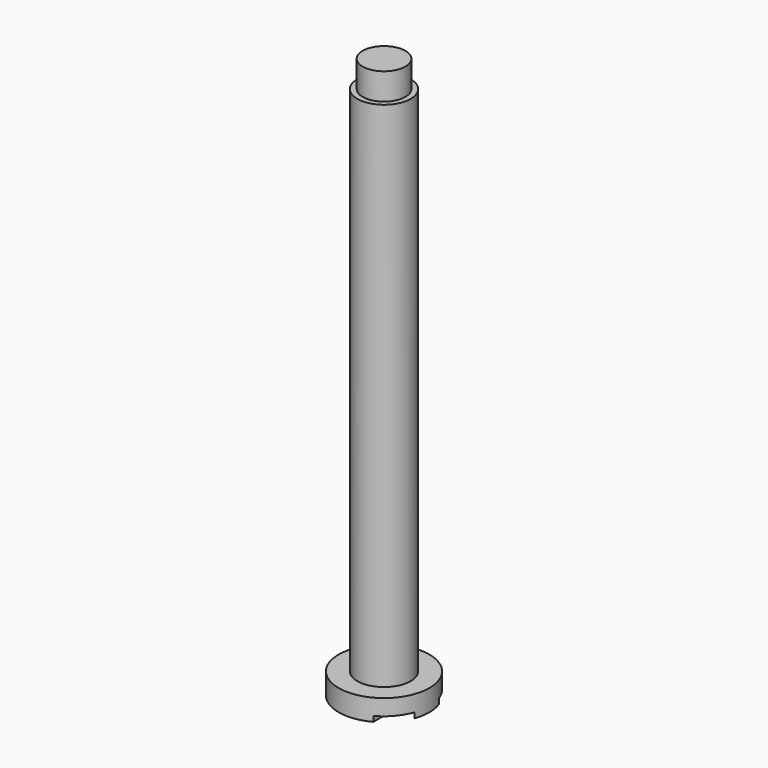
from build123d import *

# Parameters (mm, degrees)
F0_R     = 8.5
F1_DEPTH = 4
F2_R     = 5
F3_DEPTH = 100
F4_W     = 4
F4_H     = 5
F6_W     = 4
F6_H     = 36.891641
F7_DEPTH = 1


with BuildPart() as f1:
    # F0 (on Top) → F1 (new body)
    with BuildSketch(Plane.XY):
        Circle(F0_R)
    extrude(amount=F1_DEPTH)

    # F2 (on Top) → F3 (join)
    with BuildSketch(Plane.XY):
        Circle(F2_R)
    extrude(amount=F3_DEPTH)

    # F4 (on Right) → F5 (revolve)
    with BuildSketch(Plane.YZ):
        with Locations((2, 102.5)):
            Rectangle(F4_W, F4_H)
    revolve(axis=Axis((0, 0, 102.5), (0, 0, -1)))

    # F6 (on face) → F7 (cut)
    with BuildSketch(Plane(origin=(0, 0, 0), x_dir=(1, 0, 0), z_dir=(0, 0, -1))):
        with Locations((6, -0.745802)):
            Rectangle(F6_W, F6_H)
    extrude(amount=-F7_DEPTH, mode=Mode.SUBTRACT)


solid = f1.part
